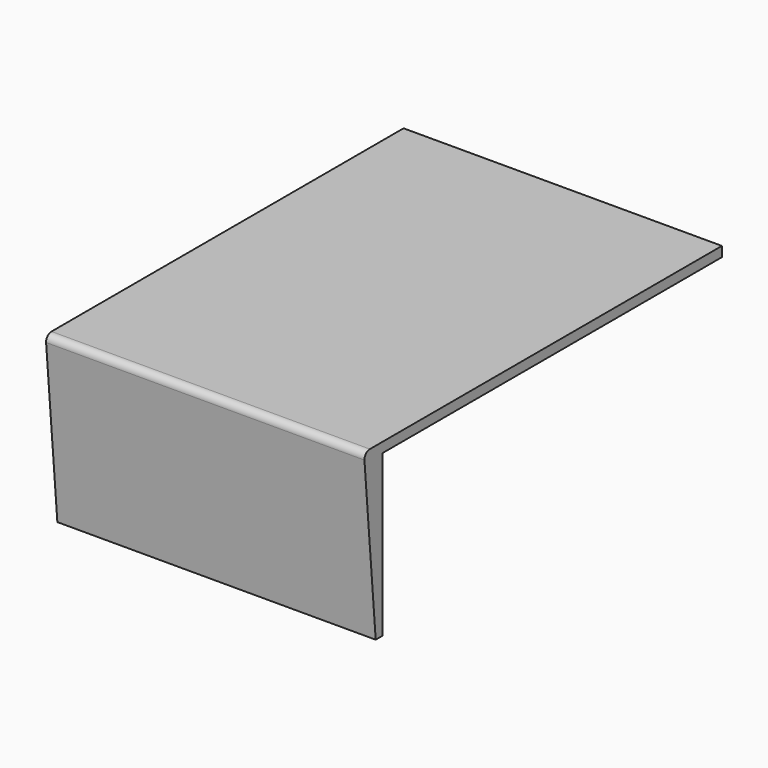
from build123d import *

# Parameters (mm, degrees)
F1_DEPTH = 609.6


with BuildPart() as f1:
    # F0 (on Right) → F1 (new body)
    with BuildSketch(Plane.YZ):
        with BuildLine():
            Line((0, -307.975), (0, 0))
            Line((0, 0), (812.8, 0))
            Line((812.8, 0), (812.8, 19.05))
            Line((812.8, 19.05), (-29.861867, 19.05))
            ThreePointArc((-29.861867, 19.05), (-39.231667, 15.255664), (-42.8625, 5.821301))
            Line((-42.8625, 5.821301), (-15.875, -307.975))
            Line((-15.875, -307.975), (0, -307.975))
        make_face()
    extrude(amount=F1_DEPTH)


solid = f1.part
